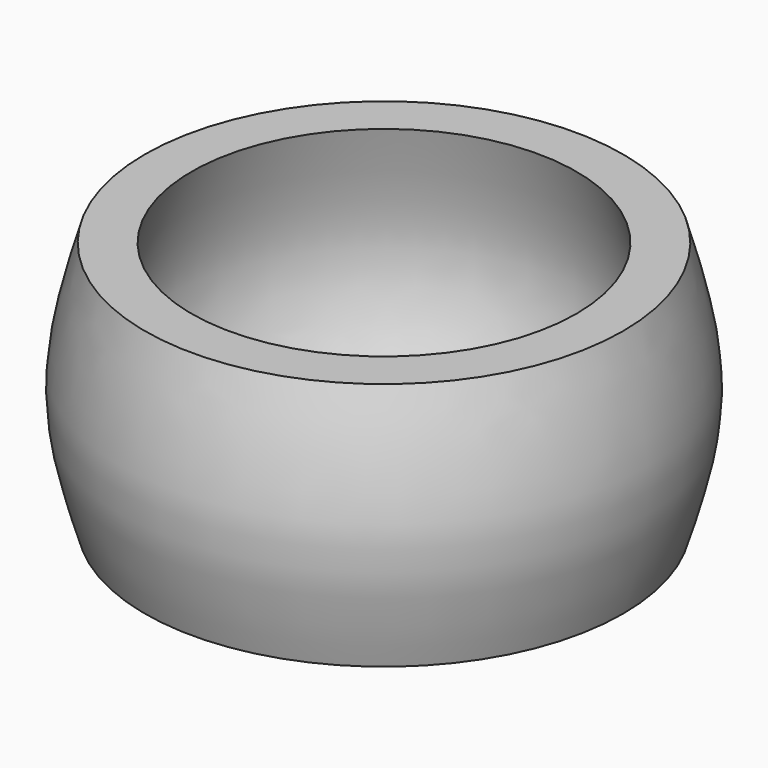
from build123d import *


with BuildPart() as f1:
    # F0 (on Front) → F1 (revolve)
    with BuildSketch(Plane.XZ):
        with BuildLine():
            Line((0, 3.0604917556), (0, 0))
            Line((0, 0), (25.3583583981, 0))
            add(Edge.make_bspline(
                [(25.3583583981, 0), (26.6540276059, 4.183892509), (29.294496095, 12.7103252317), (26.6865790976, 21.7662906183), (25.3583583981, 26.3785235584)],
                knots=[0, 0, 0, 0, 0.4906967128, 1, 1, 1, 1], degree=3))
            Line((25.3583583981, 26.3785235584), (20.4032771289, 26.3785235584))
            add(Edge.make_bspline(
                [(20.4032771289, 26.3785235584), (21.7703913438, 21.8633087368), (24.3506876456, 13.3412759916), (21.6656878343, 6.3483616197), (20.4032771289, 3.0604917556)],
                knots=[0, 0, 0, 0, 0.5298283821, 1, 1, 1, 1], degree=3))
            Line((20.4032771289, 3.0604917556), (0, 3.0604917556))
        make_face()
    revolve(axis=Axis((0, 0, 13.9179509133), (0, 0, 1)))


solid = f1.part
